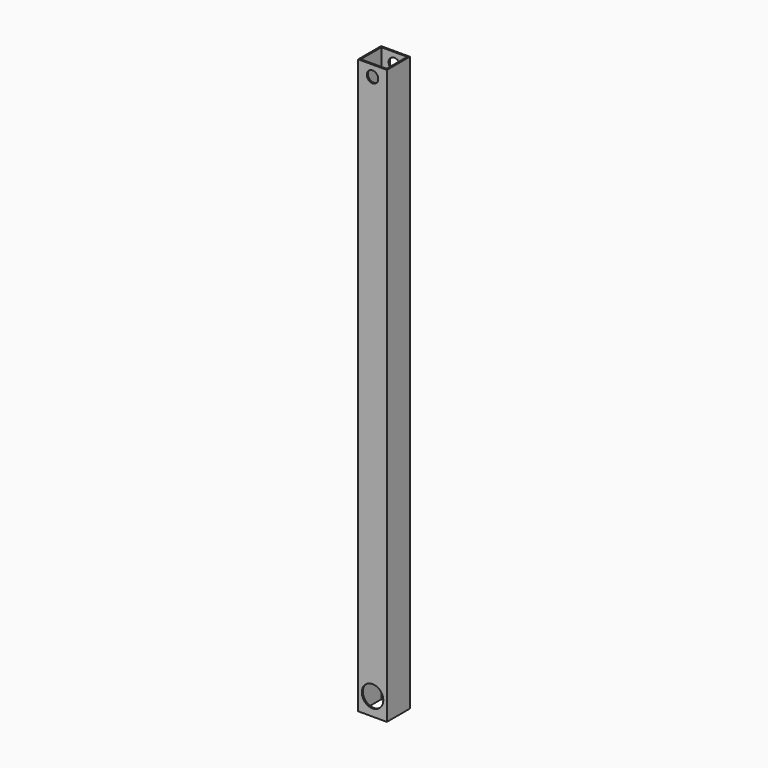
from build123d import *

# Parameters (mm, degrees)
F0_W     = 40
F0_H     = 40
F0_W_2   = 36
F0_H_2   = 36
F1_DEPTH = 800
F2_R     = 8
F2_R_2   = 15
F3_DEPTH = 40.001


with BuildPart() as f1:
    # F0 (on Top) → F1 (new body)
    with BuildSketch(Plane.XY):
        Rectangle(F0_W, F0_H)
        Rectangle(F0_W_2, F0_H_2, mode=Mode.SUBTRACT)
    extrude(amount=F1_DEPTH)

    # F2 (on face) → F3 (cut, through all)
    with BuildSketch(Plane(origin=(0, 20, 0), x_dir=(-1, 0, 0), z_dir=(0, 1, 0))):
        with Locations((0, 785)):
            Circle(F2_R)
        with Locations((0, 25)):
            Circle(F2_R_2)
    extrude(amount=-F3_DEPTH, mode=Mode.SUBTRACT)


solid = f1.part
